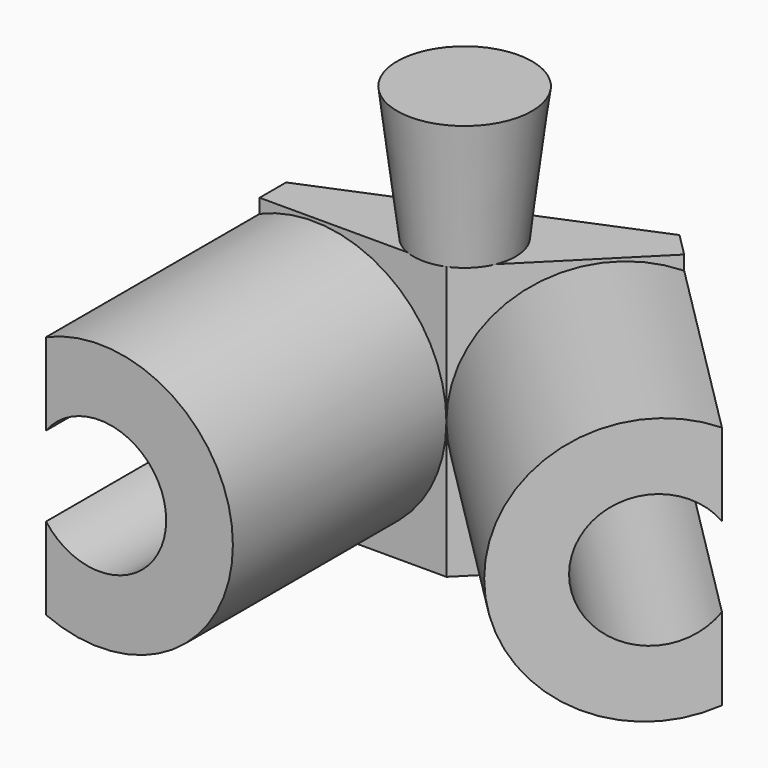
from build123d import *

# Parameters (mm, degrees)
F1_DEPTH = 25.9842
F2_R     = 12.7
F2_R_2   = 6.35
F3_DEPTH = 25.4
F4_R     = 12.7
F4_R_2   = 6.35
F5_DEPTH = 25.4
F7_R     = 4.860079591
F8_DEPTH = 12.7
F8_TAPER = -7
F6_W     = 22.3425124863
F6_H     = 36.2117751569
F9_DEPTH = 38.6852001


with BuildPart() as f1:
    # F0 (on Top) → F1 (new body)
    with BuildSketch(Plane.XY):
        Polygon((5.17619859, -4.1735334439), (-38.1843136522, -22.134045686), (-12.7843136522, -22.134045686), align=None)
    extrude(amount=F1_DEPTH)

    # F2 (on face) → F3 (join)
    with BuildSketch(Plane(origin=(4.6748660169, -4.6748660169, 0), x_dir=(0.7071067812, 0.7071067812, 0), z_dir=(0.7071067812, -0.7071067812, 0))):
        with Locations((-11.9910086759, 12.9921)):
            Circle(F2_R)
        with Locations((-11.9910086759, 12.9921)):
            Circle(F2_R_2, mode=Mode.SUBTRACT)
    extrude(amount=F3_DEPTH)

    # F4 (on face) → F5 (join)
    with BuildSketch(Plane.XZ.offset(22.134045686)):
        with Locations((-25.4843136522, 12.9921)):
            Circle(F4_R)
        with Locations((-25.4843136522, 12.9921)):
            Circle(F4_R_2, mode=Mode.SUBTRACT)
    extrude(amount=F5_DEPTH)

    # F7 (on face) → F8 (join)
    with BuildSketch(Plane.XY.offset(25.9842)):
        with Locations((-14.6441855916, -17.6439176255)):
            Circle(F7_R)
    extrude(amount=F8_DEPTH, taper=F8_TAPER)

    # F6 (on face) → F9 (cut, through all)
    with BuildSketch(Plane.XY):
        with Locations((-41.7355698953, -31.0400566086)):
            Rectangle(F6_W, F6_H)
        Polygon((34.686883608, -12.8634416315), (9.0812918357, 12.7421501407), (-6.7172502521, -3.0563919471), (18.8883415201, -28.6619837193), align=None)
    extrude(amount=F9_DEPTH, mode=Mode.SUBTRACT)


solid = f1.part
